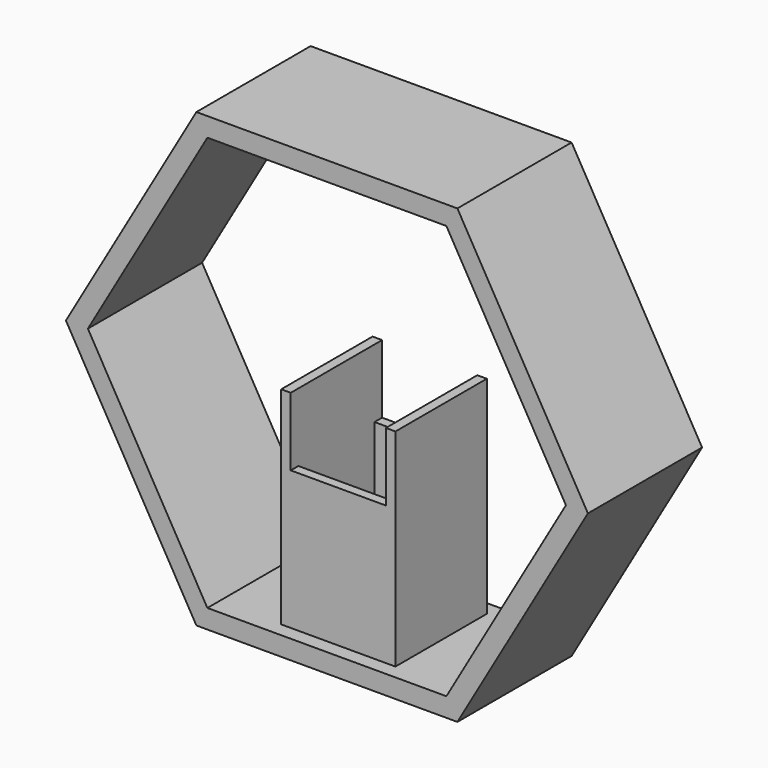
from build123d import *

# Parameters (mm, degrees)
F1_DEPTH = 30
F2_R     = 10
F3_DEPTH = 4
F4_W     = 24
F4_H     = 24
F4_W_2   = 20
F4_H_2   = 20
F5_DEPTH = 43.5
F6_W     = 20
F6_H     = 14.353989
F7_DEPTH = 28.1


with BuildPart() as f1:
    # F0 (on Front) → F1 (new body)
    with BuildSketch(Plane.XZ):
        Polygon((-27.424138, -47.5), (27.424138, -47.5), (54.848276, 0), (27.424138, 47.5), (-27.424138, 47.5), (-54.848276, 0), align=None)
        Polygon((50.229473, 0), (25.114737, -43.5), (-25.114737, -43.5), (-50.229473, 0), (-25.114737, 43.5), (25.114737, 43.5), align=None, mode=Mode.SUBTRACT)
    extrude(amount=F1_DEPTH)

    # F2 (on face) → F3 (cut, through all)
    with BuildSketch(Plane(origin=(0, 0, -47.5), x_dir=(1, 0, 0), z_dir=(0, 0, -1))):
        with Locations((0, 15)):
            Circle(F2_R)
    extrude(amount=-F3_DEPTH, mode=Mode.SUBTRACT)

    # F4 (on face) → F5 (join)
    with BuildSketch(Plane.XY.offset(-43.5)):
        with Locations((0, -15)):
            Rectangle(F4_W, F4_H)
        with Locations((0, -15)):
            Rectangle(F4_W_2, F4_H_2, mode=Mode.SUBTRACT)
    extrude(amount=F5_DEPTH)

    # F6 (on face) → F7 (cut)
    with BuildSketch(Plane.XZ.offset(27)):
        with Locations((0, -7.176994)):
            Rectangle(F6_W, F6_H)
    extrude(amount=-F7_DEPTH, mode=Mode.SUBTRACT)


solid = f1.part
